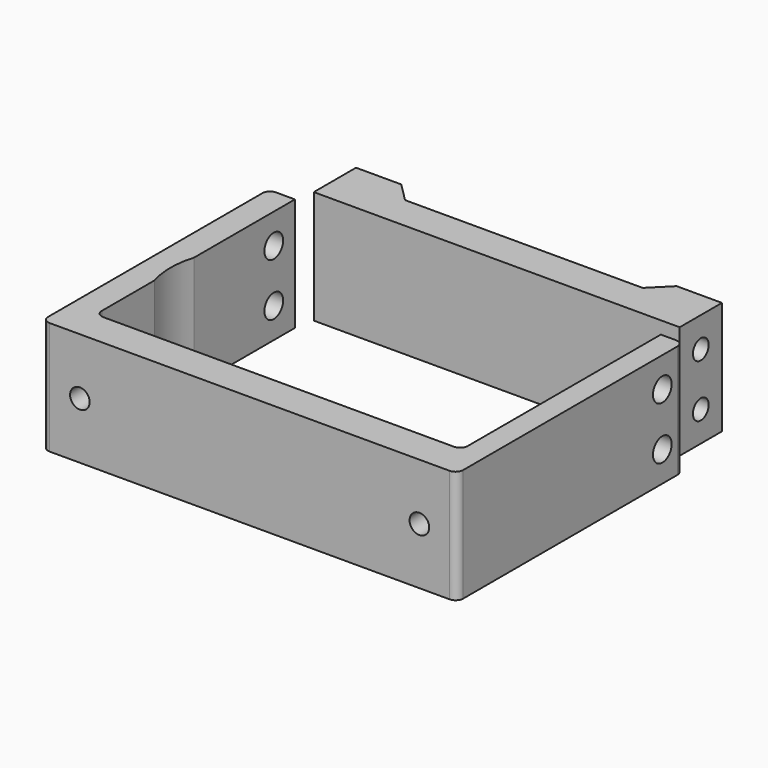
from build123d import *

# Parameters (mm, degrees)
CYLINDER004_R           = 1.55
CYLINDER004_DEPTH       = 60
CYLINDER004_PITCH_ANGLE = 90
CYLINDER003_R           = 1.55
CYLINDER003_DEPTH       = 60
CYLINDER003_PITCH_ANGLE = 90
CYLINDER002_R           = 1.3
CYLINDER002_DEPTH       = 10
CYLINDER002_ROLL_ANGLE  = 90
CYLINDER001_R           = 1.3
CYLINDER001_DEPTH       = 10
CYLINDER001_ROLL_ANGLE  = 90
CYLINDER_R              = 11
CYLINDER_DEPTH          = 15
BOX001_W                = 48.5
BOX001_H                = 33
BOX001_DEPTH            = 15
BOX_W                   = 55
BOX_H                   = 37.5
BOX_DEPTH               = 15
FILLET_R                = 1
FILLET001_R             = 1
FILLET002_R             = 1
FILLET003_R             = 1
FILLET004_R             = 1
FILLET005_R             = 1
CYLINDER008_R           = 1.3
CYLINDER008_DEPTH       = 7
CYLINDER008_PITCH_ANGLE = 90
CYLINDER007_R           = 1.3
CYLINDER007_DEPTH       = 7
CYLINDER007_PITCH_ANGLE = 90
CYLINDER006_R           = 1.3
CYLINDER006_DEPTH       = 7
CYLINDER006_PITCH_ANGLE = 90
CYLINDER005_R           = 1.3
CYLINDER005_DEPTH       = 7
CYLINDER005_PITCH_ANGLE = 90
PAD_DEPTH               = 15


with BuildPart() as cylinder004:
    # Cylinder004 → Cylinder004 (new body)
    with BuildSketch(Plane.XY):
        Circle(CYLINDER004_R)
    extrude(amount=CYLINDER004_DEPTH)


with BuildPart() as cylinder004_1:
    # Cylinder004 pitch: moved
    add(cylinder004.part.rotate(Axis((0, 0, 0), (0, 1, 0)), CYLINDER004_PITCH_ANGLE))


with BuildPart() as cylinder004_2:
    # Cylinder004 placement: moved
    add(cylinder004_1.part.moved(Location((0, 34, 11))))


with BuildPart() as cylinder003:
    # Cylinder003 → Cylinder003 (new body)
    with BuildSketch(Plane.XY):
        Circle(CYLINDER003_R)
    extrude(amount=CYLINDER003_DEPTH)


with BuildPart() as cylinder003_1:
    # Cylinder003 pitch: moved
    add(cylinder003.part.rotate(Axis((0, 0, 0), (0, 1, 0)), CYLINDER003_PITCH_ANGLE))


with BuildPart() as cylinder003_2:
    # Cylinder003 placement: moved
    add(cylinder003_1.part.moved(Location((0, 34, 4))))


with BuildPart() as cylinder002:
    # Cylinder002 → Cylinder002 (new body)
    with BuildSketch(Plane.XY):
        Circle(CYLINDER002_R)
    extrude(amount=CYLINDER002_DEPTH)


with BuildPart() as cylinder002_1:
    # Cylinder002 roll: moved
    add(cylinder002.part.rotate(Axis((0, 0, 0), (1, 0, 0)), CYLINDER002_ROLL_ANGLE))


with BuildPart() as cylinder002_2:
    # Cylinder002 placement: moved
    add(cylinder002_1.part.moved(Location((50, 8, 7.5))))


with BuildPart() as cylinder001:
    # Cylinder001 → Cylinder001 (new body)
    with BuildSketch(Plane.XY):
        Circle(CYLINDER001_R)
    extrude(amount=CYLINDER001_DEPTH)


with BuildPart() as cylinder001_1:
    # Cylinder001 roll: moved
    add(cylinder001.part.rotate(Axis((0, 0, 0), (1, 0, 0)), CYLINDER001_ROLL_ANGLE))


with BuildPart() as cylinder001_2:
    # Cylinder001 placement: moved
    add(cylinder001_1.part.moved(Location((5, 8, 7.5))))


with BuildPart() as cylinder:
    # Cylinder → Cylinder (new body)
    with BuildSketch(Plane(origin=(14, 17.5, 0), x_dir=(1, 0, 0), z_dir=(0, 0, 1))):
        Circle(CYLINDER_R)
    extrude(amount=CYLINDER_DEPTH)


with BuildPart() as cube001:
    # Box001 → Box001 (new body)
    with BuildSketch(Plane(origin=(3.5, 4.5, 0), x_dir=(1, 0, 0), z_dir=(0, 0, 1))):
        with Locations((24.25, 16.5)):
            Rectangle(BOX001_W, BOX001_H)
    extrude(amount=BOX001_DEPTH)


with BuildPart() as fillet005:
    # Box → Box (new body)
    with BuildSketch(Plane.XY):
        with Locations((27.5, 18.75)):
            Rectangle(BOX_W, BOX_H)
    extrude(amount=BOX_DEPTH)

    # Cut: cut Cube001
    add(cube001.part, mode=Mode.SUBTRACT)

    # Cut001: cut Cylinder
    add(cylinder.part, mode=Mode.SUBTRACT)

    # Cut002: cut Cylinder001
    add(cylinder001_2.part, mode=Mode.SUBTRACT)

    # Cut003: cut Cylinder002
    add(cylinder002_2.part, mode=Mode.SUBTRACT)

    # Cut004: cut Cylinder003
    add(cylinder003_2.part, mode=Mode.SUBTRACT)

    # Cut005: cut Cylinder004
    add(cylinder004_2.part, mode=Mode.SUBTRACT)

    # Fillet
    fillet_edges = [fillet005.edges().sort_by_distance(p)[0] for p in [
        (0, 37.5, 7.5),
    ]]
    fillet(fillet_edges, radius=FILLET_R)

    # Fillet001
    fillet001_edges = [fillet005.edges().sort_by_distance(p)[0] for p in [
        (0, 0, 7.5),
    ]]
    fillet(fillet001_edges, radius=FILLET001_R)

    # Fillet002
    fillet002_edges = [fillet005.edges().sort_by_distance(p)[0] for p in [
        (3.5, 4.5, 7.5),
    ]]
    fillet(fillet002_edges, radius=FILLET002_R)

    # Fillet003
    fillet003_edges = [fillet005.edges().sort_by_distance(p)[0] for p in [
        (52, 4.5, 7.5),
    ]]
    fillet(fillet003_edges, radius=FILLET003_R)

    # Fillet004
    fillet004_edges = [fillet005.edges().sort_by_distance(p)[0] for p in [
        (55, 0, 7.5),
    ]]
    fillet(fillet004_edges, radius=FILLET004_R)

    # Fillet005
    fillet005_edges = [fillet005.edges().sort_by_distance(p)[0] for p in [
        (55, 37.5, 7.5),
    ]]
    fillet(fillet005_edges, radius=FILLET005_R)


with BuildPart() as cylinder008:
    # Cylinder008 → Cylinder008 (new body)
    with BuildSketch(Plane.XY):
        Circle(CYLINDER008_R)
    extrude(amount=CYLINDER008_DEPTH)


with BuildPart() as cylinder008_1:
    # Cylinder008 pitch: moved
    add(cylinder008.part.rotate(Axis((0, 0, 0), (0, 1, 0)), CYLINDER008_PITCH_ANGLE))


with BuildPart() as cylinder008_2:
    # Cylinder008 placement: moved
    add(cylinder008_1.part.moved(Location((45.5, 43.5, 11))))


with BuildPart() as cylinder007:
    # Cylinder007 → Cylinder007 (new body)
    with BuildSketch(Plane.XY):
        Circle(CYLINDER007_R)
    extrude(amount=CYLINDER007_DEPTH)


with BuildPart() as cylinder007_1:
    # Cylinder007 pitch: moved
    add(cylinder007.part.rotate(Axis((0, 0, 0), (0, 1, 0)), CYLINDER007_PITCH_ANGLE))


with BuildPart() as cylinder007_2:
    # Cylinder007 placement: moved
    add(cylinder007_1.part.moved(Location((45.5, 43.5, 4))))


with BuildPart() as cylinder006:
    # Cylinder006 → Cylinder006 (new body)
    with BuildSketch(Plane.XY):
        Circle(CYLINDER006_R)
    extrude(amount=CYLINDER006_DEPTH)


with BuildPart() as cylinder006_1:
    # Cylinder006 pitch: moved
    add(cylinder006.part.rotate(Axis((0, 0, 0), (0, 1, 0)), CYLINDER006_PITCH_ANGLE))


with BuildPart() as cylinder006_2:
    # Cylinder006 placement: moved
    add(cylinder006_1.part.moved(Location((4, 43.5, 11))))


with BuildPart() as cylinder005:
    # Cylinder005 → Cylinder005 (new body)
    with BuildSketch(Plane.XY):
        Circle(CYLINDER005_R)
    extrude(amount=CYLINDER005_DEPTH)


with BuildPart() as cylinder005_1:
    # Cylinder005 pitch: moved
    add(cylinder005.part.rotate(Axis((0, 0, 0), (0, 1, 0)), CYLINDER005_PITCH_ANGLE))


with BuildPart() as cylinder005_2:
    # Cylinder005 placement: moved
    add(cylinder005_1.part.moved(Location((4, 43.5, 4))))


with BuildPart() as cut009:
    # Sketch → Pad (new body)
    with BuildSketch(Plane.XY):
        Polygon((4, 40), (52.5, 40), (52.5, 47), (46.5, 47), (44, 44.5), (12.5, 44.5), (10, 47), (4, 47), align=None)
    extrude(amount=PAD_DEPTH)

    # Cut006: cut Cylinder005
    add(cylinder005_2.part, mode=Mode.SUBTRACT)

    # Cut007: cut Cylinder006
    add(cylinder006_2.part, mode=Mode.SUBTRACT)

    # Cut008: cut Cylinder007
    add(cylinder007_2.part, mode=Mode.SUBTRACT)

    # Cut009: cut Cylinder008
    add(cylinder008_2.part, mode=Mode.SUBTRACT)


solid = Compound([fillet005.part, cut009.part])
